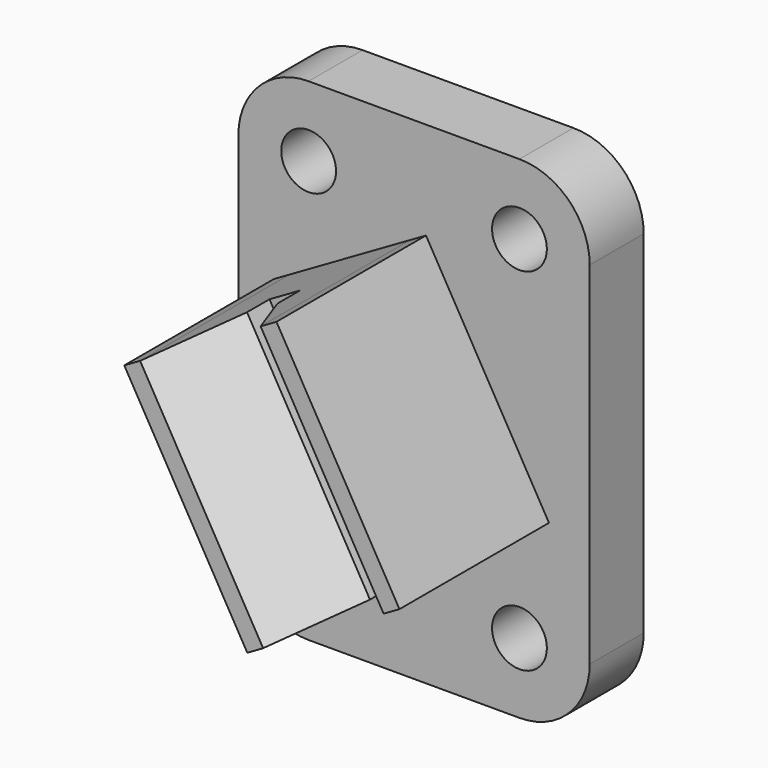
from build123d import *

# Parameters (mm, degrees)
F0_R     = 4.953
F1_DEPTH = 12.192
F2_DEPTH = 45.974
F4_DEPTH = 203.2


with BuildPart() as f1:
    # F0 (on Front) → F1 (new body)
    with BuildSketch(Plane.XZ):
        with BuildLine():
            Line((50.8, 0), (12.7, 0))
            ThreePointArc((12.7, 0), (3.7197438789, -3.7197438789), (0, -12.7))
            Line((0, -12.7), (0, -76.2))
            ThreePointArc((0, -76.2), (3.7197438789, -85.1802561211), (12.7, -88.9))
            Line((12.7, -88.9), (50.8, -88.9))
            ThreePointArc((50.8, -88.9), (59.7802561211, -85.1802561211), (63.5, -76.2))
            Line((63.5, -76.2), (63.5, -12.7))
            ThreePointArc((63.5, -12.7), (59.7802561211, -3.7197438789), (50.8, 0))
        make_face()
        with Locations((12.7, -76.2)):
            Circle(F0_R, mode=Mode.SUBTRACT)
        Polygon((31.0494050882, -19.2913363232), (33.909, -17.6403), (56.134, -56.134), (53.2744050882, -57.7850363232), (45.1355580316, -62.4841397046), (39.6363370474, -65.6592095569), (31.4974899908, -70.3583129383), (28.637895079, -72.0093492615), (6.412895079, -33.5156492615), (9.2724899908, -31.8646129383), (17.4113370474, -27.1655095569), (22.9105580316, -23.9904397046), align=None, mode=Mode.SUBTRACT)
        with Locations((50.8, -76.2)):
            Circle(F0_R, mode=Mode.SUBTRACT)
        with Locations((12.7, -12.7)):
            Circle(F0_R, mode=Mode.SUBTRACT)
        with Locations((50.8, -12.7)):
            Circle(F0_R, mode=Mode.SUBTRACT)
    extrude(amount=F1_DEPTH)

    # F0 (on Front) → F2 (join)
    with BuildSketch(Plane.XZ):
        Polygon((56.134, -56.134), (33.909, -17.6403), (31.0494050882, -19.2913363232), (53.2744050882, -57.7850363232), align=None)
        Polygon((53.2744050882, -57.7850363232), (31.0494050882, -19.2913363232), (22.9105580316, -23.9904397046), (45.1355580316, -62.4841397046), align=None)
        Polygon((45.1355580316, -62.4841397046), (22.9105580316, -23.9904397046), (17.4113370474, -27.1655095569), (39.6363370474, -65.6592095569), align=None)
        Polygon((39.6363370474, -65.6592095569), (17.4113370474, -27.1655095569), (9.2724899908, -31.8646129383), (31.4974899908, -70.3583129383), align=None)
        Polygon((31.4974899908, -70.3583129383), (9.2724899908, -31.8646129383), (6.412895079, -33.5156492615), (28.637895079, -72.0093492615), align=None)
    extrude(amount=F2_DEPTH)

    # F3 (on face) → F4 (cut)
    with BuildSketch(Plane(origin=(38.3412090132, 0, -66.4069740109), x_dir=(0.8660190526, 0, 0.5000110004), z_dir=(0.5000110004, 0, -0.8660190526))):
        Polygon((-7.9025039941, 45.974), (1.4954960059, 32.004), (1.4954960059, 26.924), (7.8454960059, 26.924), (7.8454960059, 32.004), (17.2434960059, 45.974), align=None)
    extrude(amount=-F4_DEPTH, mode=Mode.SUBTRACT)


solid = f1.part
